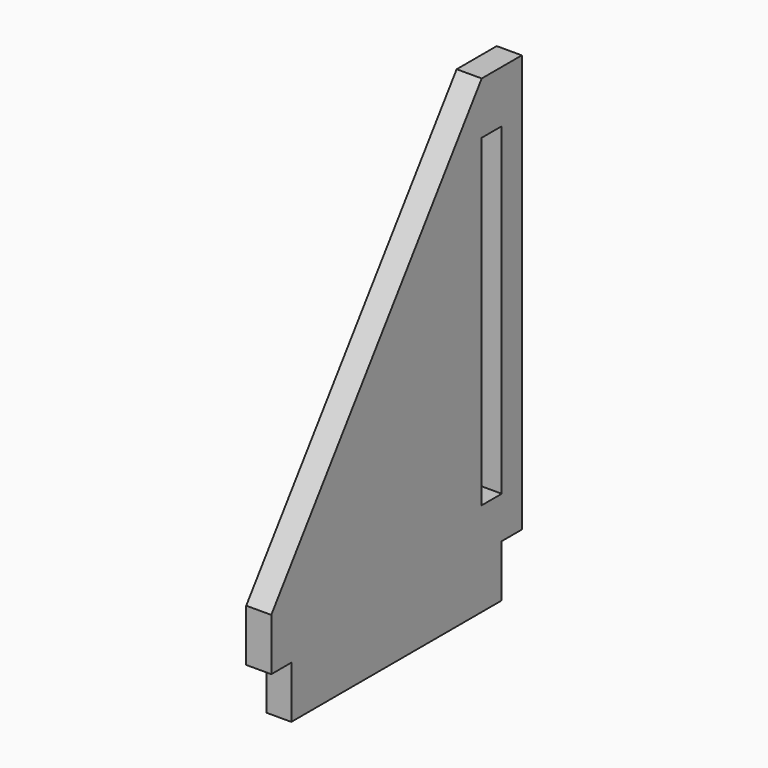
from build123d import *

# Parameters (mm, degrees)
F0_W     = 3.048
F0_H     = 39.37
F1_DEPTH = 3.048


with BuildPart() as f1:
    # F0 (on Right) → F1 (new body)
    with BuildSketch(Plane.YZ):
        Polygon((0, 0), (0, 50.8), (-6.096, 50.8), (-38.1, 6.35), (-38.1, 0), (-35.052, 0), (-35.052, -6.35), (-3.048, -6.35), (-3.048, 0), align=None)
        with Locations((-4.572, 24.765)):
            Rectangle(F0_W, F0_H, mode=Mode.SUBTRACT)
    extrude(amount=F1_DEPTH)


solid = f1.part
